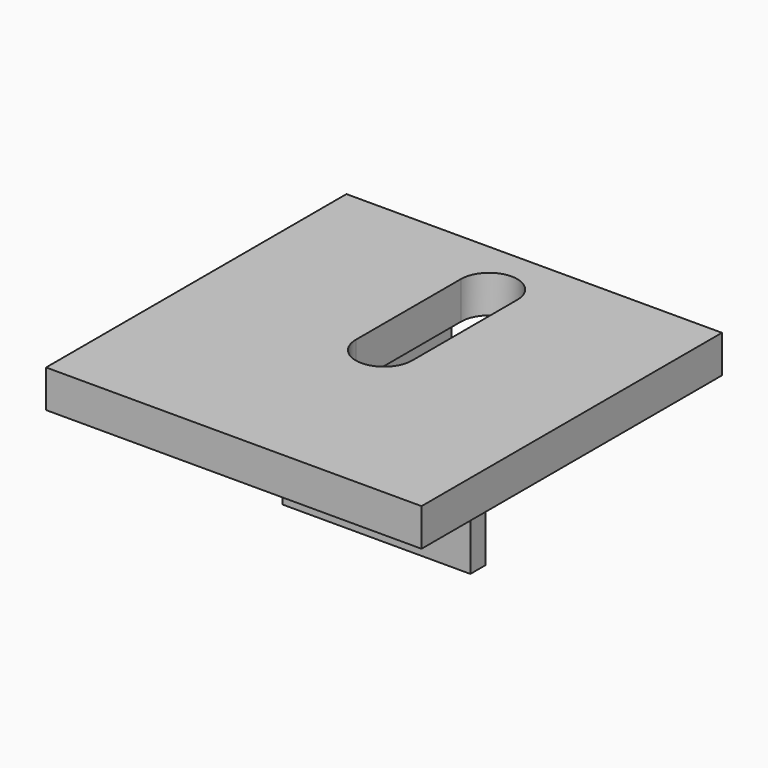
from build123d import *

# Parameters (mm, degrees)
F0_W     = 100
F0_H     = 100
F1_DEPTH = 10
F3_DEPTH = 25
F5_DEPTH = 25


with BuildPart() as f1:
    # F0 (on Top) → F1 (new body)
    with BuildSketch(Plane.XY):
        Rectangle(F0_W, F0_H)
    extrude(amount=F1_DEPTH)

    # F2 (on Top) → F3 (join)
    with BuildSketch(Plane.XY):
        Polygon((34.999999, -10), (-10, -10), (-10, 34.999999), (-15.000001, 34.999999), (-15.000001, -15.000001), (34.999999, -15.000001), align=None)
    extrude(amount=-F3_DEPTH)

    # F4 (on Top) → F5 (cut)
    with BuildSketch(Plane.XY):
        with BuildLine():
            ThreePointArc((-7.5, 0), (0, -7.5), (7.5, 0))
            ThreePointArc((7.5, 0), (0, 7.5), (-7.5, 0))
        make_face()
        with BuildLine():
            ThreePointArc((-7.5, 0), (0, 7.5), (7.5, 0))
            Line((7.5, 0), (7.5, 35))
            ThreePointArc((7.5, 35), (0, 27.5), (-7.5, 35))
            Line((-7.5, 35), (-7.5, 0))
        make_face()
        with BuildLine():
            ThreePointArc((-7.5, 35), (0, 27.5), (7.5, 35))
            ThreePointArc((7.5, 35), (0, 42.5), (-7.5, 35))
        make_face()
    extrude(amount=F5_DEPTH, mode=Mode.SUBTRACT)


solid = f1.part
